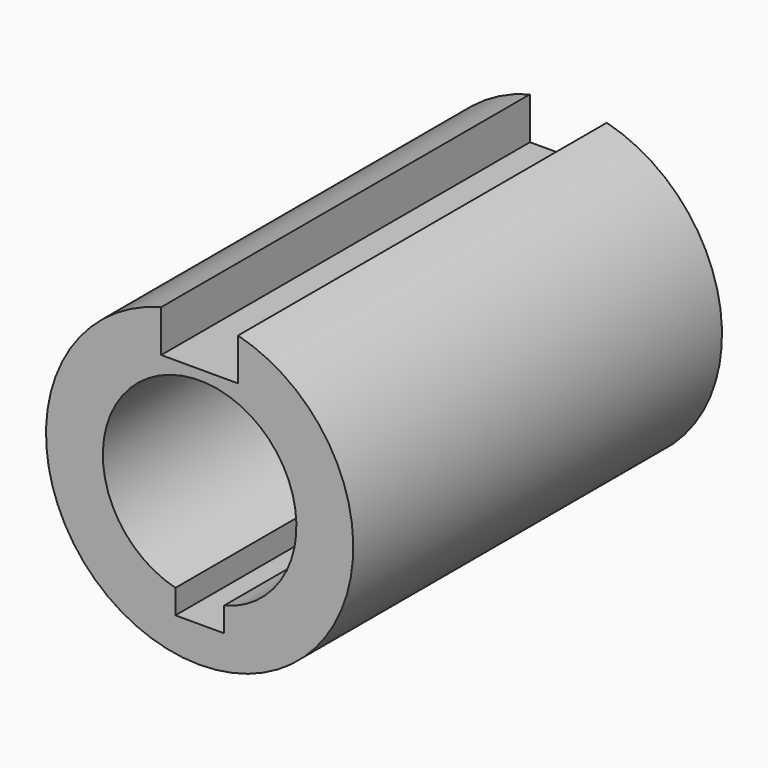
from build123d import *

# Parameters (mm, degrees)
F1_DEPTH = 19.05


with BuildPart() as f1:
    # F0 (on Front) → F1 (new body)
    with BuildSketch(Plane.XZ):
        with BuildLine():
            Line((-1.5875, 4.4064), (-1.5875, 6.148361))
            ThreePointArc((-1.5875, 6.148361), (0, -6.35), (1.5875, 6.148361))
            Line((1.5875, 6.148361), (1.5875, 4.4064))
            Line((1.5875, 4.4064), (-1.5875, 4.4064))
        make_face()
        with BuildLine():
            ThreePointArc((-1, -3.872983), (0, 4), (1, -3.872983))
            Line((1, -3.872983), (1, -4.872983))
            Line((1, -4.872983), (-1, -4.872983))
            Line((-1, -4.872983), (-1, -3.872983))
        make_face(mode=Mode.SUBTRACT)
    extrude(amount=F1_DEPTH)


solid = f1.part
